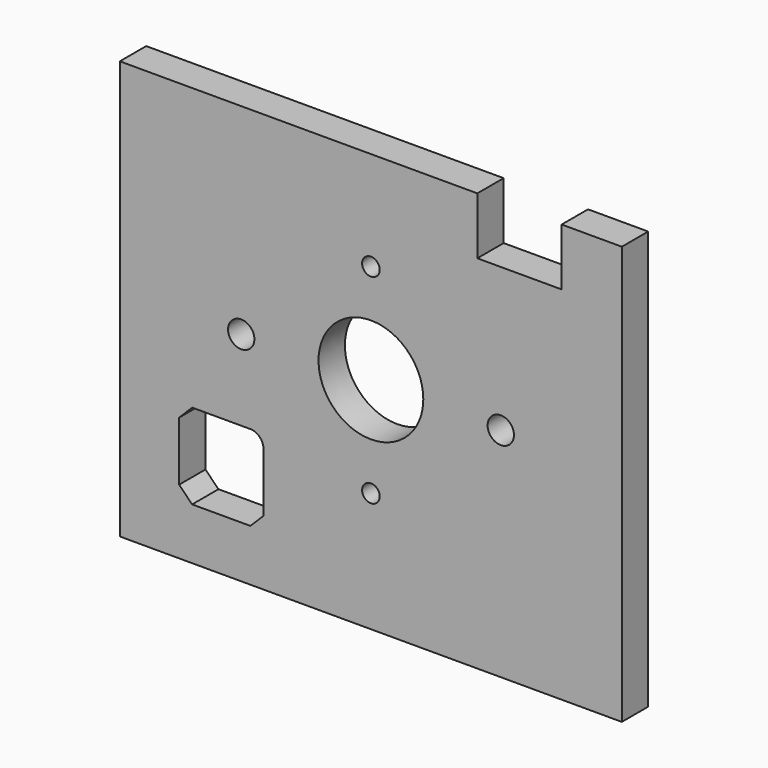
from build123d import *

# Parameters (mm, degrees)
F1_DEPTH = 2


with BuildPart() as f1:
    # F0 (on Front) → F1 (new body)
    with BuildSketch(Plane.XZ):
        Polygon((-15.24, 12.7), (-15.24, -12.7), (15.24, -12.7), (15.24, 12.7), (11.58875, 12.7), (11.58875, 9.2292314502), (6.46642, 9.2292314502), (6.46642, 12.7), align=None)
        with BuildLine():
            Line((-11.641663, -5.17525), (-10.847913, -4.3815))
            Line((-10.847913, -4.3815), (-7.31308, -4.3815))
            ThreePointArc((-7.31308, -4.3815), (-6.7518139924, -4.6139839924), (-6.51933, -5.17525))
            Line((-6.51933, -5.17525), (-6.51933, -8.763))
            Line((-6.51933, -8.763), (-7.31308, -9.55675))
            Line((-7.31308, -9.55675), (-10.847913, -9.55675))
            Line((-10.847913, -9.55675), (-11.641663, -8.763))
            Line((-11.641663, -8.763), (-11.641663, -5.17525))
        make_face(mode=Mode.SUBTRACT)
        with BuildLine():
            add(Edge.make_bspline(
                [(0.005281, -5.969), (0.300451, -5.969), (0.539736, -5.729716), (0.539736, -5.434542)],
                knots=[0, 0, 0, 0, 1, 1, 1, 1], degree=3))
            add(Edge.make_bspline(
                [(-0.529178, -5.434542), (-0.529178, -5.729716), (-0.289893, -5.969), (0.005281, -5.969)],
                knots=[0, 0, 0, 0, 1, 1, 1, 1], degree=3))
            add(Edge.make_bspline(
                [(0.005281, -4.900084), (-0.289893, -4.900084), (-0.529178, -5.139369), (-0.529178, -5.434542)],
                knots=[0, 0, 0, 0, 1, 1, 1, 1], degree=3))
            add(Edge.make_bspline(
                [(0.539736, -5.434542), (0.539736, -5.139369), (0.300451, -4.900084), (0.005281, -4.900084)],
                knots=[0, 0, 0, 0, 1, 1, 1, 1], degree=3))
        make_face(mode=Mode.SUBTRACT)
        with BuildLine():
            add(Edge.make_bspline(
                [(-7.868719, -0.296334), (-7.427422, -0.296334), (-7.069678, 0.061408), (-7.069678, 0.502708)],
                knots=[0, 0, 0, 0, 1, 1, 1, 1], degree=3))
            add(Edge.make_bspline(
                [(-8.667764, 0.502708), (-8.667764, 0.061408), (-8.310019, -0.296334), (-7.868719, -0.296334)],
                knots=[0, 0, 0, 0, 1, 1, 1, 1], degree=3))
            add(Edge.make_bspline(
                [(-7.868719, 1.30175), (-8.310019, 1.30175), (-8.667764, 0.944007), (-8.667764, 0.502708)],
                knots=[0, 0, 0, 0, 1, 1, 1, 1], degree=3))
            add(Edge.make_bspline(
                [(-7.069678, 0.502708), (-7.069678, 0.944007), (-7.427422, 1.30175), (-7.868719, 1.30175)],
                knots=[0, 0, 0, 0, 1, 1, 1, 1], degree=3))
        make_face(mode=Mode.SUBTRACT)
        with BuildLine():
            add(Edge.make_bspline(
                [(0.005281, -2.550584), (1.761708, -2.550584), (3.185572, -1.126719), (3.185572, 0.629708)],
                knots=[0, 0, 0, 0, 1, 1, 1, 1], degree=3))
            add(Edge.make_bspline(
                [(-3.175014, 0.629708), (-3.175014, -1.126719), (-1.751146, -2.550584), (0.005281, -2.550584)],
                knots=[0, 0, 0, 0, 1, 1, 1, 1], degree=3))
            add(Edge.make_bspline(
                [(0.005281, 3.81), (-1.751146, 3.81), (-3.175014, 2.386135), (-3.175014, 0.629708)],
                knots=[0, 0, 0, 0, 1, 1, 1, 1], degree=3))
            add(Edge.make_bspline(
                [(3.185572, 0.629708), (3.185572, 2.386135), (1.761708, 3.81), (0.005281, 3.81)],
                knots=[0, 0, 0, 0, 1, 1, 1, 1], degree=3))
        make_face(mode=Mode.SUBTRACT)
        with BuildLine():
            add(Edge.make_bspline(
                [(7.889861, -0.296334), (8.331161, -0.296334), (8.688906, 0.061408), (8.688906, 0.502708)],
                knots=[0, 0, 0, 0, 1, 1, 1, 1], degree=3))
            add(Edge.make_bspline(
                [(7.090822, 0.502708), (7.090822, 0.061408), (7.448564, -0.296334), (7.889861, -0.296334)],
                knots=[0, 0, 0, 0, 1, 1, 1, 1], degree=3))
            add(Edge.make_bspline(
                [(7.889861, 1.30175), (7.448564, 1.30175), (7.090822, 0.944007), (7.090822, 0.502708)],
                knots=[0, 0, 0, 0, 1, 1, 1, 1], degree=3))
            add(Edge.make_bspline(
                [(8.688906, 0.502708), (8.688906, 0.944007), (8.331161, 1.30175), (7.889861, 1.30175)],
                knots=[0, 0, 0, 0, 1, 1, 1, 1], degree=3))
        make_face(mode=Mode.SUBTRACT)
        with BuildLine():
            add(Edge.make_bspline(
                [(0.005281, 6.148916), (0.300451, 6.148916), (0.539736, 6.388201), (0.539736, 6.683375)],
                knots=[0, 0, 0, 0, 1, 1, 1, 1], degree=3))
            add(Edge.make_bspline(
                [(-0.529178, 6.683375), (-0.529178, 6.388201), (-0.289893, 6.148916), (0.005281, 6.148916)],
                knots=[0, 0, 0, 0, 1, 1, 1, 1], degree=3))
            add(Edge.make_bspline(
                [(0.005281, 7.217833), (-0.289893, 7.217833), (-0.529178, 6.978548), (-0.529178, 6.683375)],
                knots=[0, 0, 0, 0, 1, 1, 1, 1], degree=3))
            add(Edge.make_bspline(
                [(0.539736, 6.683375), (0.539736, 6.978548), (0.300451, 7.217833), (0.005281, 7.217833)],
                knots=[0, 0, 0, 0, 1, 1, 1, 1], degree=3))
        make_face(mode=Mode.SUBTRACT)
    extrude(amount=F1_DEPTH)


solid = f1.part
